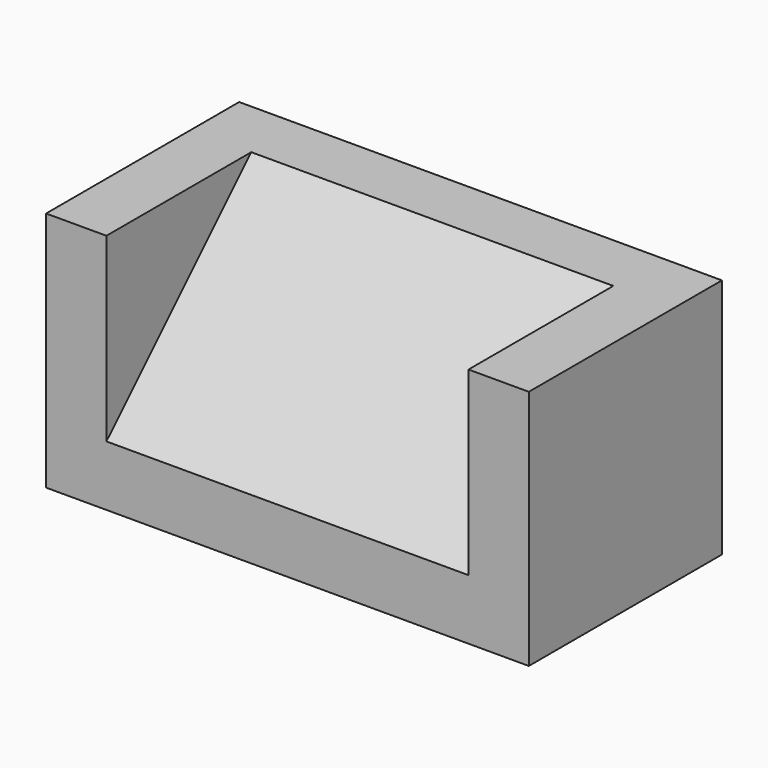
from build123d import *

# Parameters (mm, degrees)
F0_W     = 203.2
F0_H     = 101.6
F1_DEPTH = 101.6
F2_W     = 152.4
F2_H     = 76.2
F3_DEPTH = 76.2
F5_DEPTH = 152.4


with BuildPart() as f1:
    # F0 (on Top) → F1 (new body)
    with BuildSketch(Plane.XY):
        with Locations((34.353175, -0.664409)):
            Rectangle(F0_W, F0_H)
    extrude(amount=F1_DEPTH)

    # F2 (on face) → F3 (cut)
    with BuildSketch(Plane.XY.offset(101.6)):
        with Locations((34.353175, -13.364409)):
            Rectangle(F2_W, F2_H)
        with Locations((34.353175, -13.364409)):
            Rectangle(F2_W, F2_H)
    extrude(amount=-F3_DEPTH, mode=Mode.SUBTRACT)

    # F4 (on face) → F5 (join)
    with BuildSketch(Plane.YZ.offset(-41.846825)):
        Polygon((24.735591, 101.6), (-51.464409, 25.4), (24.735591, 25.4), align=None)
    extrude(amount=F5_DEPTH)


solid = f1.part
